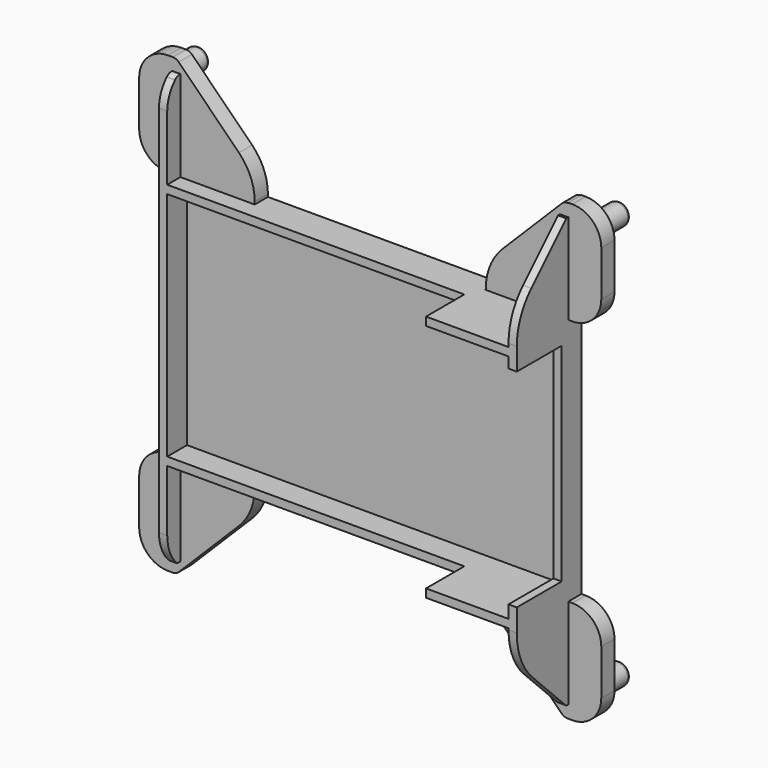
from build123d import *

# Parameters (mm, degrees)
SKETCH_W        = 96
SKETCH_H        = 60
PAD_DEPTH       = 30
SKETCH001_W     = 92
SKETCH001_H     = 56
POCKET_DEPTH    = 28
SKETCH002_W     = 74
SKETCH002_H     = 22
POCKET001_DEPTH = 60
SKETCH003_W     = 22
SKETCH003_H     = 4
POCKET002_DEPTH = 60
SKETCH005_W     = 22
SKETCH005_H     = 6.4
POCKET003_DEPTH = 60
SKETCH004_W     = 50.3
SKETCH004_H     = 13.6
POCKET004_DEPTH = 5
SKETCH006_W     = 20
SKETCH006_H     = 4
PAD001_DEPTH    = 25
SKETCH007_W     = 20
SKETCH007_H     = 4
PAD002_DEPTH    = 25
SKETCH008_W     = 25
SKETCH008_H     = 4
PAD003_DEPTH    = 8
SKETCH009_W     = 25
SKETCH009_H     = 4
PAD004_DEPTH    = 8
SKETCH010_R     = 2.6
PAD005_DEPTH    = 8
FILLET_R        = 1
FILLET001_R     = 1
FILLET002_R     = 1
FILLET003_R     = 1
CHAMFER_SIZE    = 19
FILLET004_R     = 7
FILLET005_R     = 2
FILLET006_R     = 13
FILLET007_R     = 7
CHAMFER001_SIZE = 19
FILLET008_R     = 14
FILLET009_R     = 2
FILLET010_R     = 7
FILLET011_R     = 7
CHAMFER002_SIZE = 19
FILLET012_R     = 13
FILLET013_R     = 2
FILLET014_R     = 7
FILLET015_R     = 7
FILLET016_R     = 7
FILLET017_R     = 7
CHAMFER003_SIZE = 19
FILLET018_R     = 2
FILLET019_R     = 13
SKETCH011_W     = 2
SKETCH011_H     = 15.6
SKETCH011_H_2   = 4
PAD006_DEPTH    = 22
CHAMFER004_SIZE = 15
FILLET020_R     = 15
CHAMFER005_SIZE = 3
FILLET021_R     = 2
FILLET022_R     = 8
SKETCH012_W     = 2
SKETCH012_H     = 15.6
SKETCH012_H_2   = 4
PAD007_DEPTH    = 22
CHAMFER006_SIZE = 15
FILLET023_R     = 16
FILLET024_R     = 1
CHAMFER007_SIZE = 3
FILLET025_R     = 10


with BuildPart() as part:
    # Sketch → Pad (new body)
    with BuildSketch(Plane.XZ):
        with Locations((-0.226995, -30.10394)):
            Rectangle(SKETCH_W, SKETCH_H)
    extrude(amount=PAD_DEPTH)

    # Sketch001 (on Face6 of Pad) → Pocket (cut)
    with BuildSketch(Plane.XZ.offset(30)):
        with Locations((-0.226995, -30.10394)):
            Rectangle(SKETCH001_W, SKETCH001_H)
    extrude(amount=-POCKET_DEPTH, mode=Mode.SUBTRACT)

    # Sketch002 (on Face6 of Pocket) → Pocket001 (cut)
    with BuildSketch(Plane(origin=(0, 0, -60.10394), x_dir=(1, 0, 0), z_dir=(0, 0, -1))):
        with Locations((-11.226995, 19)):
            Rectangle(SKETCH002_W, SKETCH002_H)
    extrude(amount=-POCKET001_DEPTH, mode=Mode.SUBTRACT)

    # Sketch003 (on Face8 of Pocket001) → Pocket002 (cut)
    with BuildSketch(Plane(origin=(0, 0, -60.10394), x_dir=(1, 0, 0), z_dir=(0, 0, -1))):
        with Locations((36.773005, 28)):
            Rectangle(SKETCH003_W, SKETCH003_H)
    extrude(amount=-POCKET002_DEPTH, mode=Mode.SUBTRACT)

    # Sketch005 (on Face8 of Pocket002) → Pocket003 (cut)
    with BuildSketch(Plane(origin=(0, 0, -60.10394), x_dir=(1, 0, 0), z_dir=(0, 0, -1))):
        with Locations((36.773005, 22.8)):
            Rectangle(SKETCH005_W, SKETCH005_H)
    extrude(amount=-POCKET003_DEPTH, mode=Mode.SUBTRACT)

    # Sketch004 (on Face3 of Pocket002) → Pocket004 (cut)
    with BuildSketch(Plane(origin=(47.773005, 0, 0), x_dir=(0, 0, 1), z_dir=(1, 0, 0))):
        with Locations((-29.85394, 12.8)):
            Rectangle(SKETCH004_W, SKETCH004_H)
    extrude(amount=-POCKET004_DEPTH, mode=Mode.SUBTRACT)

    # Sketch006 (on Face1 of Pocket004) → Pad001 (join)
    with BuildSketch(Plane(origin=(0, 0, -0.10394), x_dir=(-1, 0, 0), z_dir=(0, 0, 1))):
        with Locations((-37.773005, 2)):
            Rectangle(SKETCH006_W, SKETCH006_H)
        with Locations((38.226995, 2)):
            Rectangle(SKETCH006_W, SKETCH006_H)
    extrude(amount=PAD001_DEPTH)

    # Sketch007 (on Face14 of Pad001) → Pad002 (join)
    with BuildSketch(Plane(origin=(0, 0, -60.10394), x_dir=(1, 0, 0), z_dir=(0, 0, -1))):
        with Locations((-38.226995, 2)):
            Rectangle(SKETCH007_W, SKETCH007_H)
        with Locations((37.773005, 2)):
            Rectangle(SKETCH007_W, SKETCH007_H)
    extrude(amount=PAD002_DEPTH)

    # Sketch008 (on Face19 of Pad002) → Pad003 (join)
    with BuildSketch(Plane(origin=(47.773005, 0, 0), x_dir=(0, 0, 1), z_dir=(1, 0, 0))):
        with Locations((-72.60394, 2)):
            Rectangle(SKETCH008_W, SKETCH008_H)
        with Locations((12.5, 2)):
            Rectangle(SKETCH008_W, SKETCH008_H)
    extrude(amount=PAD003_DEPTH)

    # Sketch009 (on Face31 of Pad003) → Pad004 (join)
    with BuildSketch(Plane(origin=(-48.226995, 0, 0), x_dir=(0, 0, -1), z_dir=(-1, 0, 0))):
        with Locations((-12.39606, 2)):
            Rectangle(SKETCH009_W, SKETCH009_H)
        with Locations((72.60394, 2)):
            Rectangle(SKETCH009_W, SKETCH009_H)
    extrude(amount=PAD004_DEPTH)

    # Sketch010 (on Face2 of Pad004) → Pad005 (join)
    with BuildSketch(Plane(origin=(0, 0, 0), x_dir=(1, 0, 0), z_dir=(0, 1, 0))):
        with Locations((50.773005, 79.10394)):
            Circle(SKETCH010_R)
        with Locations((50.773005, -19)):
            Circle(SKETCH010_R)
        with Locations((-51.226995, -18.89606)):
            Circle(SKETCH010_R)
        with Locations((-51.226995, 79.10394)):
            Circle(SKETCH010_R)
    extrude(amount=PAD005_DEPTH)

    # Fillet
    fillet_edges = [part.edges().sort_by_distance(p)[0] for p in [
        (48.173005, 8, 19),
    ]]
    fillet(fillet_edges, radius=FILLET_R)

    # Fillet001
    fillet001_edges = [part.edges().sort_by_distance(p)[0] for p in [
        (48.173005, 8, -79.10394),
    ]]
    fillet(fillet001_edges, radius=FILLET001_R)

    # Fillet002
    fillet002_edges = [part.edges().sort_by_distance(p)[0] for p in [
        (-53.826995, 8, -79.10394),
    ]]
    fillet(fillet002_edges, radius=FILLET002_R)

    # Fillet003
    fillet003_edges = [part.edges().sort_by_distance(p)[0] for p in [
        (-53.826995, 8, 18.89606),
    ]]
    fillet(fillet003_edges, radius=FILLET003_R)

    # Chamfer
    chamfer_edges = [part.edges().sort_by_distance(p)[0] for p in [
        (27.773005, -2, -85.10394),
    ]]
    chamfer(chamfer_edges, length=CHAMFER_SIZE)

    # Fillet004
    fillet004_edges = [part.edges().sort_by_distance(p)[0] for p in [
        (55.773005, -2, -85.10394),
    ]]
    fillet(fillet004_edges, radius=FILLET004_R)

    # Fillet005
    fillet005_edges = [part.edges().sort_by_distance(p)[0] for p in [
        (46.773005, -2, -85.10394),
    ]]
    fillet(fillet005_edges, radius=FILLET005_R)

    # Fillet006
    fillet006_edges = [part.edges().sort_by_distance(p)[0] for p in [
        (27.773005, -2, -66.10394),
    ]]
    fillet(fillet006_edges, radius=FILLET006_R)

    # Fillet007
    fillet007_edges = [part.edges().sort_by_distance(p)[0] for p in [
        (55.773005, -2, -60.10394),
    ]]
    fillet(fillet007_edges, radius=FILLET007_R)

    # Chamfer001
    chamfer001_edges = [part.edges().sort_by_distance(p)[0] for p in [
        (27.773005, -2, 24.89606),
    ]]
    chamfer(chamfer001_edges, length=CHAMFER001_SIZE)

    # Fillet008
    fillet008_edges = [part.edges().sort_by_distance(p)[0] for p in [
        (27.773005, -2, 5.89606),
    ]]
    fillet(fillet008_edges, radius=FILLET008_R)

    # Fillet009
    fillet009_edges = [part.edges().sort_by_distance(p)[0] for p in [
        (46.773005, -2, 24.89606),
    ]]
    fillet(fillet009_edges, radius=FILLET009_R)

    # Fillet010
    fillet010_edges = [part.edges().sort_by_distance(p)[0] for p in [
        (55.773005, -2, 25),
    ]]
    fillet(fillet010_edges, radius=FILLET010_R)

    # Fillet011
    fillet011_edges = [part.edges().sort_by_distance(p)[0] for p in [
        (55.773005, -2, 0),
    ]]
    fillet(fillet011_edges, radius=FILLET011_R)

    # Chamfer002
    chamfer002_edges = [part.edges().sort_by_distance(p)[0] for p in [
        (-28.226995, -2, 24.89606),
    ]]
    chamfer(chamfer002_edges, length=CHAMFER002_SIZE)

    # Fillet012
    fillet012_edges = [part.edges().sort_by_distance(p)[0] for p in [
        (-28.226995, -2, 5.89606),
    ]]
    fillet(fillet012_edges, radius=FILLET012_R)

    # Fillet013
    fillet013_edges = [part.edges().sort_by_distance(p)[0] for p in [
        (-47.226995, -2, 24.89606),
    ]]
    fillet(fillet013_edges, radius=FILLET013_R)

    # Fillet014
    fillet014_edges = [part.edges().sort_by_distance(p)[0] for p in [
        (-56.226995, -2, 24.89606),
    ]]
    fillet(fillet014_edges, radius=FILLET014_R)

    # Fillet015
    fillet015_edges = [part.edges().sort_by_distance(p)[0] for p in [
        (-56.226995, -2, -0.10394),
    ]]
    fillet(fillet015_edges, radius=FILLET015_R)

    # Fillet016
    fillet016_edges = [part.edges().sort_by_distance(p)[0] for p in [
        (-56.226995, -2, -60.10394),
    ]]
    fillet(fillet016_edges, radius=FILLET016_R)

    # Fillet017
    fillet017_edges = [part.edges().sort_by_distance(p)[0] for p in [
        (-56.226995, -2, -85.10394),
    ]]
    fillet(fillet017_edges, radius=FILLET017_R)

    # Chamfer003
    chamfer003_edges = [part.edges().sort_by_distance(p)[0] for p in [
        (-28.226995, -2, -85.10394),
    ]]
    chamfer(chamfer003_edges, length=CHAMFER003_SIZE)

    # Fillet018
    fillet018_edges = [part.edges().sort_by_distance(p)[0] for p in [
        (-47.226995, -2, -85.10394),
    ]]
    fillet(fillet018_edges, radius=FILLET018_R)

    # Fillet019
    fillet019_edges = [part.edges().sort_by_distance(p)[0] for p in [
        (-28.226995, -2, -66.10394),
    ]]
    fillet(fillet019_edges, radius=FILLET019_R)

    # Sketch011 (on Face13 of Fillet019) → Pad006 (join)
    with BuildSketch(Plane(origin=(0, 0, -0.10394), x_dir=(-1, 0, 0), z_dir=(0, 0, 1))):
        with Locations((-46.773005, 11.8)):
            Rectangle(SKETCH011_W, SKETCH011_H)
        with Locations((47.226995, 6)):
            Rectangle(SKETCH011_W, SKETCH011_H_2)
    extrude(amount=PAD006_DEPTH)

    # Chamfer004
    chamfer004_edges = [part.edges().sort_by_distance(p)[0] for p in [
        (46.773005, -19.6, 21.89606),
    ]]
    chamfer(chamfer004_edges, length=CHAMFER004_SIZE)

    # Fillet020
    fillet020_edges = [part.edges().sort_by_distance(p)[0] for p in [
        (46.773005, -19.6, 6.89606),
    ]]
    fillet(fillet020_edges, radius=FILLET020_R)

    # Chamfer005
    chamfer005_edges = [part.edges().sort_by_distance(p)[0] for p in [
        (-47.226995, -8, 21.89606),
    ]]
    chamfer(chamfer005_edges, length=CHAMFER005_SIZE)

    # Fillet021
    fillet021_edges = [part.edges().sort_by_distance(p)[0] for p in [
        (-47.226995, -5, 21.89606),
    ]]
    fillet(fillet021_edges, radius=FILLET021_R)

    # Fillet022
    fillet022_edges = [part.edges().sort_by_distance(p)[0] for p in [
        (-47.226995, -8, 18.89606),
    ]]
    fillet(fillet022_edges, radius=FILLET022_R)

    # Sketch012 (on Face24 of Fillet022) → Pad007 (join)
    with BuildSketch(Plane(origin=(0, 0, -60.10394), x_dir=(1, 0, 0), z_dir=(0, 0, -1))):
        with Locations((46.773005, 11.8)):
            Rectangle(SKETCH012_W, SKETCH012_H)
        with Locations((-47.226995, 6)):
            Rectangle(SKETCH012_W, SKETCH012_H_2)
    extrude(amount=PAD007_DEPTH)

    # Chamfer006
    chamfer006_edges = [part.edges().sort_by_distance(p)[0] for p in [
        (46.773005, -19.6, -82.10394),
    ]]
    chamfer(chamfer006_edges, length=CHAMFER006_SIZE)

    # Fillet023
    fillet023_edges = [part.edges().sort_by_distance(p)[0] for p in [
        (46.773005, -19.6, -67.10394),
    ]]
    fillet(fillet023_edges, radius=FILLET023_R)

    # Fillet024
    fillet024_edges = [part.edges().sort_by_distance(p)[0] for p in [
        (46.773005, -4.6, -82.10394),
    ]]
    fillet(fillet024_edges, radius=FILLET024_R)

    # Chamfer007
    chamfer007_edges = [part.edges().sort_by_distance(p)[0] for p in [
        (-47.226995, -8, -82.10394),
    ]]
    chamfer(chamfer007_edges, length=CHAMFER007_SIZE)

    # Fillet025
    fillet025_edges = [part.edges().sort_by_distance(p)[0] for p in [
        (-47.226995, -8, -79.10394),
    ]]
    fillet(fillet025_edges, radius=FILLET025_R)


solid = part.part
